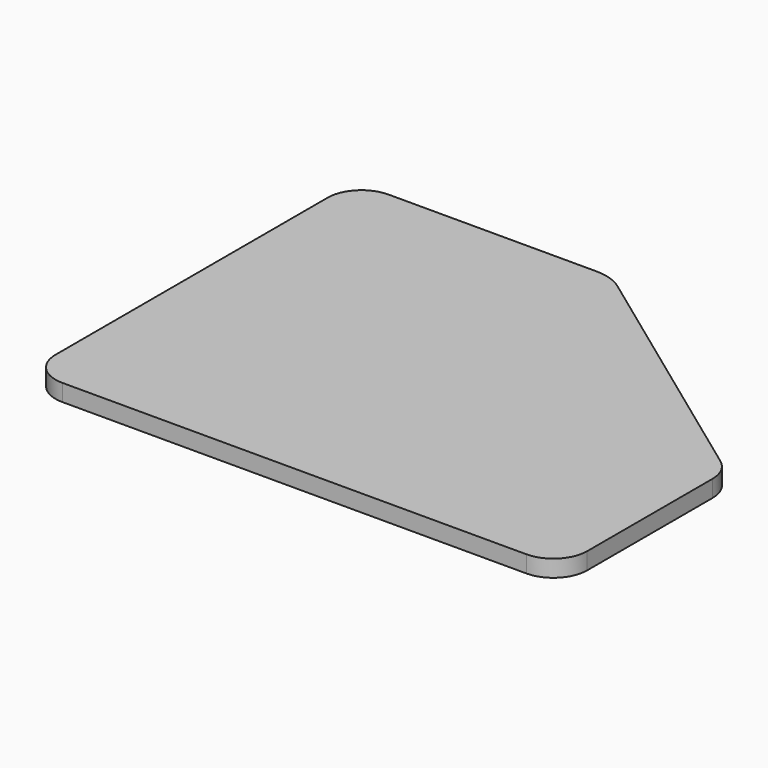
from build123d import *

# Parameters (mm, degrees)
PAD007_DEPTH    = 0.3
POCKET017_DEPTH = 0.001
SKETCH026_R     = 1.163393
SKETCH026_W     = 1.686406
SKETCH026_H     = 1.9
SKETCH026_W_2   = 1.186406
SKETCH026_H_2   = 0.3
SKETCH026_W_3   = 1.174595
POCKET018_DEPTH = 0.001
POCKET019_DEPTH = 0.001
POCKET020_DEPTH = 0.001


with BuildPart() as part:
    # Sketch024 (on Face1 of Binder007) → Pad007 (new body)
    with BuildSketch(Plane(origin=(0, 0, -9.9), x_dir=(1, 0, 0), z_dir=(0, 0, -1))):
        with BuildLine():
            Line((7.98, 31.32), (16.22, 31.32))
            ThreePointArc((16.82, 30.72), (16.6442640687, 31.1442640687), (16.22, 31.32))
            Line((16.82, 30.72), (16.82, 27.9406370227))
            ThreePointArc((16.5738752133, 27.456103914), (16.7549416454, 27.6689065754), (16.82, 27.9406370227))
            Line((16.5738752133, 27.456103914), (12.1752198046, 24.2435780961))
            ThreePointArc((11.6738965857, 24.08), (11.9375643517, 24.1219286485), (12.1752198046, 24.2435780961))
            Line((11.6738965857, 24.08), (7.98, 24.08))
            ThreePointArc((7.38, 24.68), (7.5557359313, 24.2557359313), (7.98, 24.08))
            Line((7.38, 24.68), (7.38, 30.72))
            ThreePointArc((7.98, 31.32), (7.5557359313, 31.1442640687), (7.38, 30.72))
        make_face()
    extrude(amount=PAD007_DEPTH)

    # Sketch025 (on Face12 of Pad007) → Pocket017 (cut)
    with BuildSketch(Plane(origin=(0, 0, -10.2), x_dir=(1, 0, 0), z_dir=(0, 0, -1))):
        Polygon((12.102176, 25.374237), (12.102176, 28.942009), (12.991714, 29.589825), (13.482487, 28.95867), (14.131579, 29.434669), (13.774637, 30.006891), (15.977887, 29.910671), (15.299946, 27.523453), (14.87602, 28.17679), (14.188738, 27.786554), (14.666163, 27.028563), align=None)
        Polygon((12.102467, 30.982145), (12.102467, 29.362982), (12.826257, 29.912151), align=None)
        Polygon((8.431841, 30.914753), (11.34897, 30.914753), (11.796237, 30.37645), (11.796237, 25.074999), (11.265965, 24.580235), (8.395573, 24.580235), (7.97997, 25.011898), (7.97997, 30.409004), align=None)
    extrude(amount=-POCKET017_DEPTH, mode=Mode.SUBTRACT)

    # Sketch026 (on Face37 of Pocket017) → Pocket018 (cut)
    with BuildSketch(Plane(origin=(0, 0, -10.199), x_dir=(1, 0, 0), z_dir=(0, 0, -1))):
        with Locations((9.839442, 29.104595)):
            Circle(SKETCH026_R)
        Polygon((12.6767981502, 25.7449925316), (13.8596307851, 26.5081753331), (12.6767981502, 28.59486), align=None)
        Polygon((13.5847758274, 28.7236640124), (14.0558425062, 27.9985847628), (14.9574833561, 28.5105328695), (15.2099026348, 28.1215148469), (15.6509909251, 29.6747088656), (14.2380048667, 29.7364165785), (14.4664364148, 29.370212665), align=None)
        Polygon((11.796237, 25.4914768154), (11.259242, 24.99044), (8.7969567798, 24.99044), (8.517493, 25.280703), (8.517493, 30.407208), (8.7438247535, 30.660526), (11.5602029814, 30.660526), (11.34897, 30.914753), (8.431841, 30.914753), (7.97997, 30.409004), (7.97997, 25.011898), (8.395573, 24.580235), (11.265965, 24.580235), (11.796237, 25.074999), align=None)
        with Locations((9.707757, 26.129756)):
            Rectangle(SKETCH026_W, SKETCH026_H)
        with Locations((9.707757, 26.679756)):
            Rectangle(SKETCH026_W_2, SKETCH026_H_2, mode=Mode.SUBTRACT)
        with Locations((9.7136625, 26.129756)):
            Rectangle(SKETCH026_W_3, SKETCH026_H_2, mode=Mode.SUBTRACT)
        with Locations((9.7136625, 25.579756)):
            Rectangle(SKETCH026_W_3, SKETCH026_H_2, mode=Mode.SUBTRACT)
    extrude(amount=-POCKET018_DEPTH, mode=Mode.SUBTRACT)

    # Sketch027 (on Face1 of Pocket018) → Pocket019 (cut)
    with BuildSketch(Plane(origin=(0, 0, -10.199), x_dir=(1, 0, 0), z_dir=(0, 0, -1))):
        Polygon((8.517493, 27.6328851722), (8.517493, 27.8828851722), (8.841954765, 27.5584234072), (10.9505429311, 27.5584234072), (11.1733869231, 27.7812673992), (11.1733869231, 30.4097335481), (10.9225944712, 30.660526), (11.1725944712, 30.660526), (11.4233869231, 30.4097335481), (11.4233869231, 27.6777140086), (11.0540963217, 27.3084234072), (8.841954765, 27.3084234072), align=None)
    extrude(amount=-POCKET019_DEPTH, mode=Mode.SUBTRACT)

    # Sketch028 (on Face90 of Pocket019) → Pocket020 (cut)
    with BuildSketch(Plane(origin=(0, 0, -10.198), x_dir=(1, 0, 0), z_dir=(0, 0, -1))):
        with BuildLine():
            Line((9.257822177, 30.1121671582), (8.8026697446, 28.576782))
            ThreePointArc((8.8026697446, 28.576782), (8.8655769652, 28.4681437713), (8.9398235996, 28.3669162039))
            Line((8.9398235996, 28.3669162039), (9.4871926987, 30.2133797862))
            ThreePointArc((9.4871926987, 30.2133797862), (9.3697730907, 30.1689701162), (9.257822177, 30.1121671582))
        make_face()
        with BuildLine():
            Line((9.844371, 30.2679775585), (9.2057279774, 28.1289465951))
            ThreePointArc((9.2057279774, 28.1289465951), (9.3059562649, 28.0707302879), (9.41148, 28.0227762541))
            Line((9.41148, 28.0227762541), (10.074652, 30.243963039))
            ThreePointArc((10.074652, 30.243963039), (9.9601103849, 30.2617131501), (9.844371, 30.2679775585))
        make_face()
        with BuildLine():
            Line((10.3605789255, 30.1447390176), (9.72639, 27.946707908))
            ThreePointArc((9.72639, 27.946707908), (9.8457884939, 27.9412193107), (9.96512, 27.9480102375))
            Line((9.96512, 27.9480102375), (10.5619225192, 30.0164640541))
            ThreePointArc((10.5619225192, 30.0164640541), (10.4645497537, 30.0857797781), (10.3605789255, 30.1447390176))
        make_face()
        with BuildLine():
            Line((10.7927776556, 29.7714041182), (10.3073094918, 28.0394268055))
            ThreePointArc((10.3073094918, 28.0394268055), (10.4322899025, 28.1035881884), (10.5486252769, 28.1823464694))
            Line((10.5486252769, 28.1823464694), (10.9246531985, 29.5238800191))
            ThreePointArc((10.9246531985, 29.5238800191), (10.8662016428, 29.6516305641), (10.7927776556, 29.7714041182))
        make_face()
    extrude(amount=-POCKET020_DEPTH, mode=Mode.SUBTRACT)


solid = part.part
